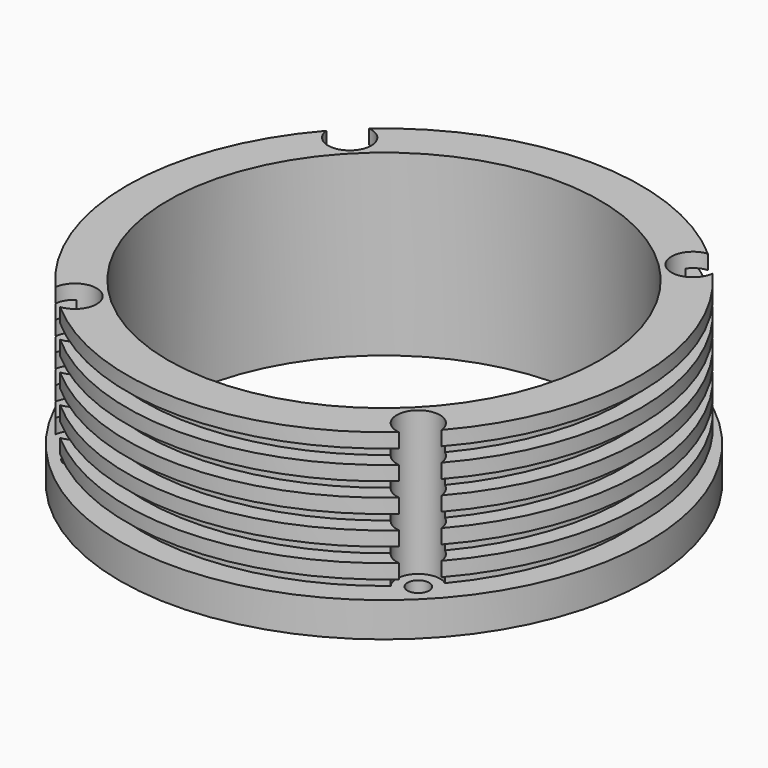
from build123d import *

# Parameters (mm, degrees)
F0_R     = 55
F1_DEPTH = 7.2
F2_R     = 2.25
F5_DEPTH = 7.2
F6_R     = 4.5
F7_DEPTH = 30
F8_R     = 45
F9_DEPTH = 37.201


with BuildPart() as f1:
    # F0 (on Top) → F1 (new body)
    with BuildSketch(Plane.XY):
        Circle(F0_R)
    extrude(amount=F1_DEPTH)

    # F3 (on Front) → F4 (revolve)
    with BuildSketch(Plane.XZ):
        Polygon((0, 37.2), (0, 7.2), (50, 7.2), (50, 10.2), (53.5, 10.2), (53.5, 13.2), (50, 13.2), (50, 16.2), (53.5, 16.2), (53.5, 19.2), (50, 19.2), (50, 22.2), (53.5, 22.2), (53.5, 25.2), (50, 25.2), (50, 28.2), (53.5, 28.2), (53.5, 31.2), (50, 31.2), (50, 34.2), (53.5, 34.2), (53.5, 37.2), align=None)
    revolve(axis=Axis((0, 0, 22.2), (0, 0, -1)))

    # F2 (on face) → F5 (cut, through all)
    with BuildSketch(Plane.XY.offset(7.2)):
        with Locations((-35.75, 35.75)):
            Circle(F2_R)
        with Locations((-35.75, -35.75)):
            Circle(F2_R)
        with Locations((35.75, -35.75)):
            Circle(F2_R)
        with Locations((35.75, 35.75)):
            Circle(F2_R)
    extrude(amount=-F5_DEPTH, mode=Mode.SUBTRACT)

    # F6 (on face) → F7 (cut, through all)
    with BuildSketch(Plane.XY.offset(37.2)):
        with Locations((-35.75, 35.75)):
            Circle(F6_R)
        with Locations((-35.75, -35.75)):
            Circle(F6_R)
        with Locations((35.75, -35.75)):
            Circle(F6_R)
        with Locations((35.75, 35.75)):
            Circle(F6_R)
    extrude(amount=-F7_DEPTH, mode=Mode.SUBTRACT)

    # F8 (on face) → F9 (cut, through all)
    with BuildSketch(Plane.XY.offset(37.2)):
        Circle(F8_R)
    extrude(amount=-F9_DEPTH, mode=Mode.SUBTRACT)


solid = f1.part
